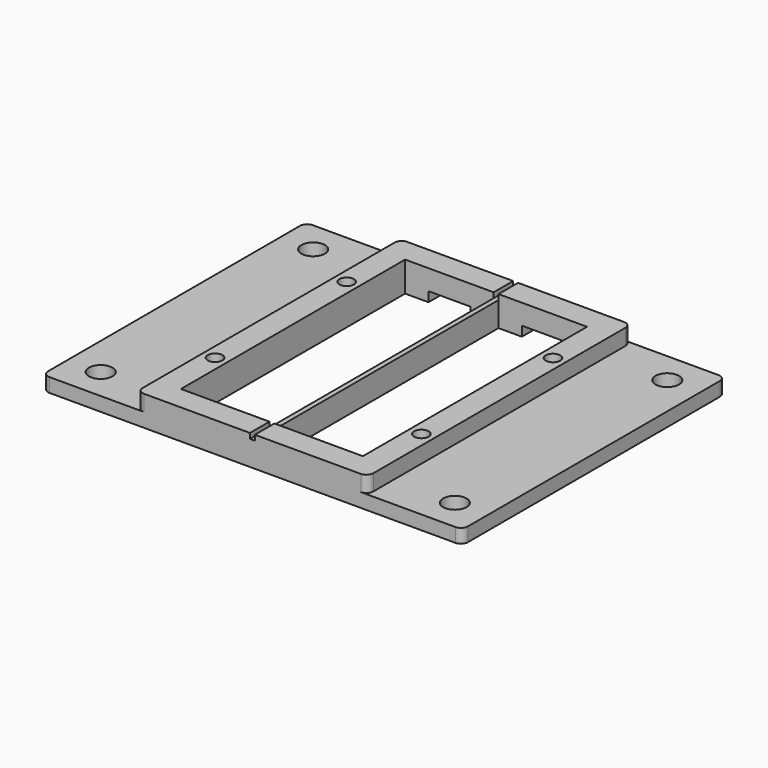
from build123d import *

# Parameters (mm, degrees)
PAD_DEPTH                     = 8.6
PAD001_DEPTH                  = 4
SKETCH002_W                   = 1.4
SKETCH002_H                   = 94.4
POCKET001_DEPTH               = 1.5
SKETCH003_W                   = 25.4
SKETCH003_H                   = 80.4
POCKET_DEPTH                  = 8.6
SKETCH009_R                   = 3.3782
POCKET008_DEPTH               = 8.601
SKETCH008_R                   = 2.0955
POCKET005_DEPTH               = 7
SKETCH008_MIRRORED004_2_R     = 2.0955
POCKET005_MIRRORED004_2_DEPTH = 7
SKETCH010_W                   = 12
SKETCH010_H                   = 7
POCKET007_DEPTH               = 2.8


with BuildPart() as part:
    # Sketch → Pad (new body)
    with BuildSketch(Plane.XY):
        with BuildLine():
            Line((-33.1, 45.2), (-33.1, -45.2))
            ThreePointArc((-33.1, -45.2), (-32.514214, -46.614214), (-31.1, -47.2))
            Line((-31.1, -47.2), (31.1, -47.2))
            ThreePointArc((31.1, -47.2), (32.514214, -46.614214), (33.1, -45.2))
            Line((33.1, -45.2), (33.1, 45.2))
            ThreePointArc((33.1, 45.2), (32.514214, 46.614214), (31.1, 47.2))
            Line((31.1, 47.2), (-31.1, 47.2))
            ThreePointArc((-31.1, 47.2), (-32.514214, 46.614214), (-33.1, 45.2))
        make_face()
    extrude(amount=PAD_DEPTH)

    # Sketch007 → Pad001 (join)
    with BuildSketch(Plane.XY):
        with BuildLine():
            Line((-60.2375, 45.2), (-60.2375, -45.2))
            ThreePointArc((-60.2375, -45.2), (-59.651714, -46.614214), (-58.2375, -47.2))
            Line((-58.2375, -47.2), (58.2375, -47.2))
            ThreePointArc((58.2375, -47.2), (59.651714, -46.614214), (60.2375, -45.2))
            Line((60.2375, -45.2), (60.2375, 45.2))
            ThreePointArc((60.2375, 45.2), (59.651714, 46.614214), (58.2375, 47.2))
            Line((58.2375, 47.2), (-58.2375, 47.2))
            ThreePointArc((-58.2375, 47.2), (-59.651714, 46.614214), (-60.2375, 45.2))
        make_face()
    extrude(amount=PAD001_DEPTH)

    # Sketch002 (on DatumPlane) → Pocket001 (cut)
    with BuildSketch(Plane.XY.offset(8.6)):
        Rectangle(SKETCH002_W, SKETCH002_H)
    extrude(amount=-POCKET001_DEPTH, mode=Mode.SUBTRACT)

    # Sketch003 (on DatumPlane) → Pocket (cut)
    with BuildSketch(Plane.XY.offset(8.6)):
        with Locations((-13.4, 0)):
            Rectangle(SKETCH003_W, SKETCH003_H)
    pocket = extrude(amount=-POCKET_DEPTH, mode=Mode.SUBTRACT)

    # Mirrored: Pocket across Sketch003 V_Axis
    add(pocket.mirror(Plane(origin=(0, 0, 8.6), x_dir=(0, 0, 1), z_dir=(1, 0, 0))), mode=Mode.SUBTRACT)

    # Sketch009 → Pocket008 (cut, through all)
    with BuildSketch(Plane.XY):
        with Locations((-50.8, 38.1)):
            Circle(SKETCH009_R)
        with Locations((50.8, 38.1)):
            Circle(SKETCH009_R)
        with Locations((-50.8, -38.1)):
            Circle(SKETCH009_R)
        with Locations((50.8, -38.1)):
            Circle(SKETCH009_R)
    extrude(amount=POCKET008_DEPTH, mode=Mode.SUBTRACT)

    # Sketch008 (on DatumPlane) → Pocket005 (cut)
    with BuildSketch(Plane.XY.offset(8.6)):
        with Locations((-29.6, 23.6)):
            Circle(SKETCH008_R)
    pocket005 = extrude(amount=-POCKET005_DEPTH, mode=Mode.SUBTRACT)

    # Sketch008 Mirrored004 2 → Pocket005 Mirrored004 2 (cut)
    with BuildSketch(Plane(origin=(0, 0, 8.6), x_dir=(-1, 0, 0), z_dir=(0, 0, -1))):
        with Locations((-29.6, 23.6)):
            Circle(SKETCH008_MIRRORED004_2_R)
    pocket005_mirrored004_2 = extrude(amount=POCKET005_MIRRORED004_2_DEPTH, mode=Mode.SUBTRACT)

    # Mirrored005: Pocket005, Pocket005 Mirrored004 2 across XZ
    add(pocket005.mirror(Plane.XZ), mode=Mode.SUBTRACT)
    add(pocket005_mirrored004_2.mirror(Plane.XZ), mode=Mode.SUBTRACT)

    # Sketch010 → Pocket007 (cut)
    with BuildSketch(Plane.XY):
        with Locations((-13.4, 43.7)):
            Rectangle(SKETCH010_W, SKETCH010_H)
    pocket007 = extrude(amount=POCKET007_DEPTH, mode=Mode.SUBTRACT)

    # Mirrored006: Pocket007 across Sketch010 V_Axis
    add(pocket007.mirror(Plane(origin=(0, 0, 0), x_dir=(0, 0, 1), z_dir=(1, 0, 0))), mode=Mode.SUBTRACT)


solid = part.part
